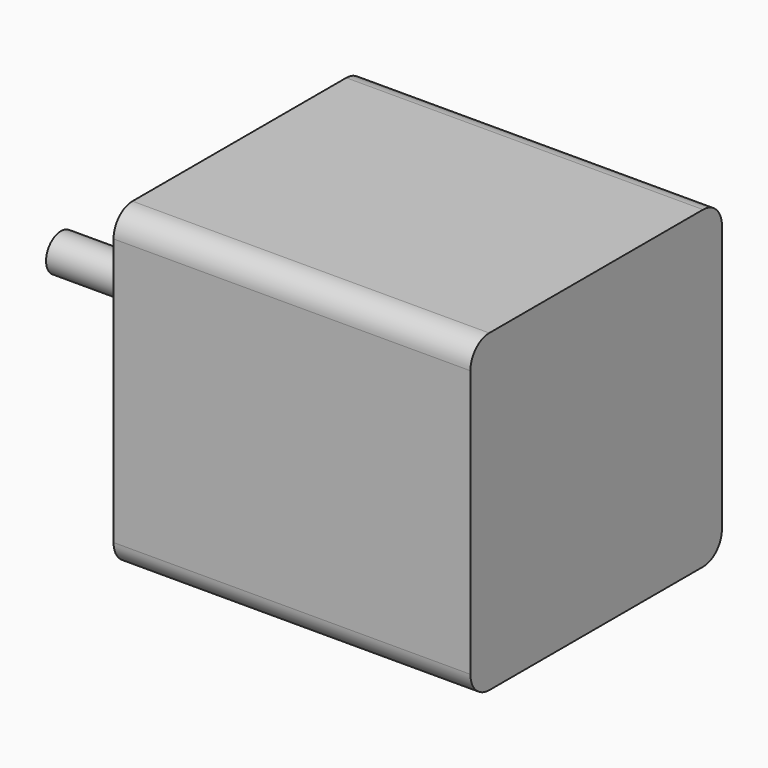
from build123d import *

# Parameters (mm, degrees)
F0_R     = 11
F0_R_2   = 2.5
F1_DEPTH = 48
F2_DEPTH = 2
F3_DEPTH = 24
F4_R     = 2
F5_DEPTH = 5


with BuildPart() as f1:
    # F0 (on Right) → F1 (new body)
    with BuildSketch(Plane.YZ):
        with BuildLine():
            Line((27.518488, 2.104281), (-8.431512, 2.104281))
            ThreePointArc((-8.431512, 2.104281), (-10.676576, 1.174345), (-11.606512, -1.070719))
            Line((-11.606512, -1.070719), (-11.606512, -37.020719))
            ThreePointArc((-11.606512, -37.020719), (-10.676576, -39.265783), (-8.431512, -40.195719))
            Line((-8.431512, -40.195719), (27.518488, -40.195719))
            ThreePointArc((27.518488, -40.195719), (29.763552, -39.265783), (30.693488, -37.020719))
            Line((30.693488, -37.020719), (30.693488, -1.070719))
            ThreePointArc((30.693488, -1.070719), (29.763552, 1.174345), (27.518488, 2.104281))
        make_face()
        with Locations((9.543488, -19.045719)):
            Circle(F0_R, mode=Mode.SUBTRACT)
        with Locations((9.543488, -19.045719)):
            Circle(F0_R)
        with Locations((9.543488, -19.045719)):
            Circle(F0_R_2, mode=Mode.SUBTRACT)
        with Locations((9.543488, -19.045719)):
            Circle(F0_R_2)
    extrude(amount=F1_DEPTH)

    # F0 (on Right) → F2 (join)
    with BuildSketch(Plane.YZ):
        with Locations((9.543488, -19.045719)):
            Circle(F0_R)
        with Locations((9.543488, -19.045719)):
            Circle(F0_R_2, mode=Mode.SUBTRACT)
        with Locations((9.543488, -19.045719)):
            Circle(F0_R_2)
    extrude(amount=-F2_DEPTH)

    # F0 (on Right) → F3 (join)
    with BuildSketch(Plane.YZ):
        with Locations((9.543488, -19.045719)):
            Circle(F0_R_2)
    extrude(amount=-F3_DEPTH)

    # F4 (on face) → F5 (cut)
    with BuildSketch(Plane.YZ):
        with BuildLine():
            ThreePointArc((25.043488, -5.545719), (26.457701, -4.959933), (27.043488, -3.545719))
            ThreePointArc((27.043488, -3.545719), (25.043488, -1.545719), (23.043488, -3.545719))
            Line((23.043488, -3.545719), (25.043488, -3.545719))
            Line((25.043488, -3.545719), (25.043488, -5.545719))
        make_face()
        with BuildLine():
            Line((25.043488, -3.545719), (23.043488, -3.545719))
            ThreePointArc((23.043488, -3.545719), (23.629274, -4.959933), (25.043488, -5.545719))
            Line((25.043488, -5.545719), (25.043488, -3.545719))
        make_face()
        with BuildLine():
            ThreePointArc((27.043488, -34.545719), (26.457701, -33.131506), (25.043488, -32.545719))
            Line((25.043488, -32.545719), (25.043488, -34.545719))
            Line((25.043488, -34.545719), (23.043488, -34.545719))
            ThreePointArc((23.043488, -34.545719), (25.043488, -36.545719), (27.043488, -34.545719))
        make_face()
        with BuildLine():
            Line((25.043488, -34.545719), (25.043488, -32.545719))
            ThreePointArc((25.043488, -32.545719), (23.629274, -33.131506), (23.043488, -34.545719))
            Line((23.043488, -34.545719), (25.043488, -34.545719))
        make_face()
        with Locations((-5.956512, -34.545719)):
            Circle(F4_R)
        with Locations((-5.956512, -3.545719)):
            Circle(F4_R)
    extrude(amount=F5_DEPTH, mode=Mode.SUBTRACT)


solid = f1.part
